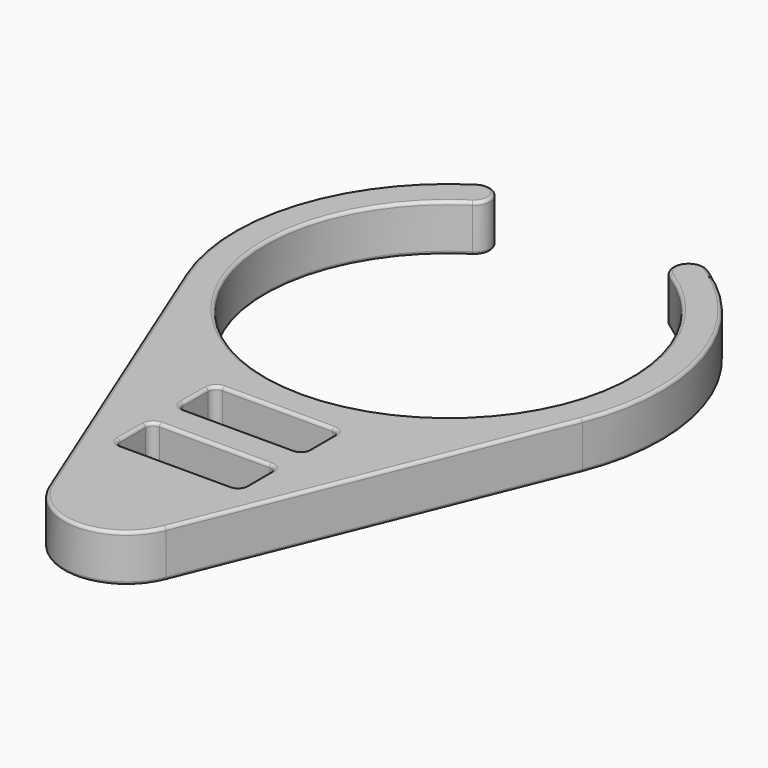
from build123d import *

# Parameters (mm, degrees)
F1_DEPTH = 1.5
F2_R     = 0.5
F3_R     = 0.2


with BuildPart() as f1:
    # F0 (on Top) → F1 (new body, symmetric)
    with BuildSketch(Plane.XY):
        with BuildLine():
            ThreePointArc((-3.7080992435, -27.1), (0, -29.6), (3.7080992435, -27.1))
            ThreePointArc((3.7080992435, -27.1), (3.92634671, -26.3640690498), (4, -25.6))
            ThreePointArc((4, -25.6), (2.8284271247, -22.7715728753), (0, -21.6))
            ThreePointArc((0, -21.6), (-3.3166247904, -23.3639320225), (-3.7080992435, -27.1))
        make_face()
        with BuildLine():
            Line((7.8117545464, 10.6), (8.5205633617, 10.6))
            ThreePointArc((8.5205633617, 10.6), (7.9476057251, 11.0361027196), (7.3523699548, 11.4412698617))
            ThreePointArc((7.3523699548, 11.4412698617), (7.6894262983, 11.0792622411), (7.8117545464, 10.6))
        make_face()
        with BuildLine():
            ThreePointArc((-7.35236994, 11.4412698712), (-7.947605718, 11.0361027248), (-8.5205633617, 10.6))
            Line((-8.5205633617, 10.6), (-7.8117545464, 10.6))
            ThreePointArc((-7.8117545464, 10.6), (-7.6894262941, 11.0792622489), (-7.35236994, 11.4412698712))
        make_face()
        with BuildLine():
            ThreePointArc((-5.8117545464, 10.6), (-6.3324922975, 11.4776717477), (-7.35236994, 11.4412698712))
            ThreePointArc((-7.35236994, 11.4412698712), (-7.6894262941, 11.0792622489), (-7.8117545464, 10.6))
            Line((-7.8117545464, 10.6), (-5.8117545464, 10.6))
        make_face()
        with BuildLine():
            Line((3.7080992435, -27.1), (12.6075374281, -5.1))
            ThreePointArc((12.6075374281, -5.1), (7.6026311235, -11.2765242872), (0, -13.6))
            ThreePointArc((0, -13.6), (-7.6026311235, -11.2765242872), (-12.6075374281, -5.1))
            Line((-12.6075374281, -5.1), (-3.7080992435, -27.1))
            ThreePointArc((-3.7080992435, -27.1), (-3.3166247904, -23.3639320225), (0, -21.6))
            ThreePointArc((0, -21.6), (2.8284271247, -22.7715728753), (4, -25.6))
            ThreePointArc((4, -25.6), (3.92634671, -26.3640690498), (3.7080992435, -27.1))
        make_face()
        Polygon((4, -21.6), (0, -21.6), (-4, -21.6), (-4, -18.6), (4, -18.6), align=None, mode=Mode.SUBTRACT)
        Polygon((-4, -13.6), (0, -13.6), (4, -13.6), (4, -16.6), (-4, -16.6), align=None, mode=Mode.SUBTRACT)
        with BuildLine():
            Line((-5.8117545464, 10.6), (-7.8117545464, 10.6))
            ThreePointArc((-7.8117545464, 10.6), (-7.2910167883, 9.7223282485), (-6.2711391394, 9.7587301374))
            ThreePointArc((-6.2711391394, 9.7587301374), (-5.9340827948, 10.1207377581), (-5.8117545464, 10.6))
        make_face()
        with BuildLine():
            ThreePointArc((6.2711391036, 9.7587301604), (7.2910167696, 9.7223282383), (7.8117545464, 10.6))
            Line((7.8117545464, 10.6), (5.8117545464, 10.6))
            ThreePointArc((5.8117545464, 10.6), (5.9340827846, 10.1207377768), (6.2711391036, 9.7587301604))
        make_face()
        with BuildLine():
            ThreePointArc((7.8117545464, 10.6), (7.6894262983, 11.0792622411), (7.3523699548, 11.4412698617))
            ThreePointArc((7.3523699548, 11.4412698617), (6.3324923052, 11.477671752), (5.8117545464, 10.6))
            Line((5.8117545464, 10.6), (7.8117545464, 10.6))
        make_face()
        with BuildLine():
            ThreePointArc((0, -13.6), (7.6026311235, -11.2765242872), (12.6075374281, -5.1))
            ThreePointArc((12.6075374281, -5.1), (13.349578814, -2.5978347694), (13.6, 0))
            ThreePointArc((13.6, 0), (12.2645762609, 5.8770884918), (8.5205633617, 10.6))
            Line((8.5205633617, 10.6), (7.8117545464, 10.6))
            ThreePointArc((7.8117545464, 10.6), (7.2910167696, 9.7223282383), (6.2711391036, 9.7587301604))
            ThreePointArc((6.2711391036, 9.7587301604), (10.1809924271, 5.5594418064), (11.6, 0))
            ThreePointArc((11.6, 0), (-5.5594417877, -10.1809924373), (-6.2711391394, 9.7587301374))
            ThreePointArc((-6.2711391394, 9.7587301374), (-7.2910167883, 9.7223282485), (-7.8117545464, 10.6))
            Line((-7.8117545464, 10.6), (-8.5205633617, 10.6))
            ThreePointArc((-8.5205633617, 10.6), (-13.1613700178, 3.4261259835), (-12.6075374281, -5.1))
            ThreePointArc((-12.6075374281, -5.1), (-7.6026311235, -11.2765242872), (0, -13.6))
        make_face()
    extrude(amount=F1_DEPTH, both=True)

    # F2
    f2_edges = [f1.edges().sort_by_distance(p)[0] for p in [
        (-4, -18.6, 0),
        (-4, -13.6, 0),
        (-4, -16.6, 0),
        (-4, -21.6, 0),
        (4, -21.6, 0),
        (4, -16.6, 0),
        (4, -13.6, 0),
        (4, -18.6, 0),
    ]]
    fillet(f2_edges, radius=F2_R)

    # F3
    f3_edges = [f1.edges().sort_by_distance(p)[0] for p in [
        (0, -21.6, 1.5),
        (3.853553, -21.453553, 1.5),
        (-3.853553, -21.453553, 1.5),
        (4, -20.1, 1.5),
        (-4, -20.1, 1.5),
        (3.853553, -18.746447, 1.5),
        (-3.853553, -18.746447, 1.5),
        (0, -18.6, 1.5),
        (8.157818, -16.1, 1.5),
        (12.961592, 4.117903, 1.5),
        (5.970485, 11.140615, 1.5),
        (0, -11.6, 1.5),
        (-5.970485, 11.140615, 1.5),
        (-12.961592, 4.117903, 1.5),
        (-8.157818, -16.1, 1.5),
        (0, -29.6, 1.5),
        (0, -13.6, 1.5),
        (-3.853553, -13.746447, 1.5),
        (3.853553, -13.746447, 1.5),
        (-4, -15.1, 1.5),
        (4, -15.1, 1.5),
        (-3.853553, -16.453553, 1.5),
        (3.853553, -16.453553, 1.5),
        (0, -16.6, 1.5),
        (0, -21.6, -1.5),
        (3.853553, -21.453553, -1.5),
        (-3.853553, -21.453553, -1.5),
        (4, -20.1, -1.5),
        (-4, -20.1, -1.5),
        (3.853553, -18.746447, -1.5),
        (-3.853553, -18.746447, -1.5),
        (0, -18.6, -1.5),
        (8.157818, -16.1, -1.5),
        (12.961592, 4.117903, -1.5),
        (5.970485, 11.140615, -1.5),
        (0, -11.6, -1.5),
        (-5.970485, 11.140615, -1.5),
        (-12.961592, 4.117903, -1.5),
        (-8.157818, -16.1, -1.5),
        (0, -29.6, -1.5),
        (0, -13.6, -1.5),
        (-3.853553, -13.746447, -1.5),
        (3.853553, -13.746447, -1.5),
        (-4, -15.1, -1.5),
        (4, -15.1, -1.5),
        (-3.853553, -16.453553, -1.5),
        (3.853553, -16.453553, -1.5),
        (0, -16.6, -1.5),
    ]]
    fillet(f3_edges, radius=F3_R)


solid = f1.part
